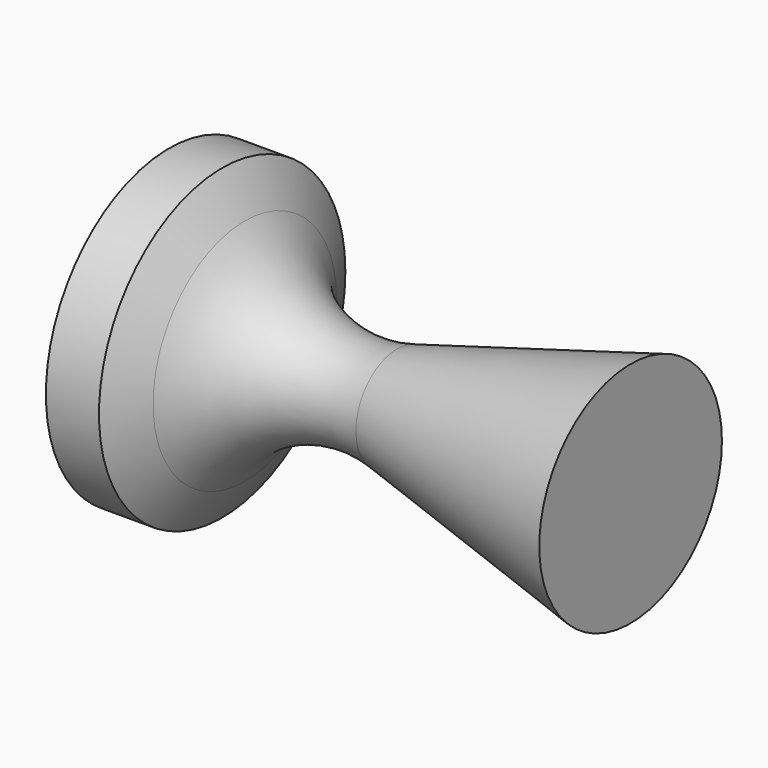
from build123d import *

# Parameters (mm, degrees)
REVOLUTION_FACE4_R = 145
PAD_DEPTH          = 50


with BuildPart() as part:
    # Sketch → Revolution (revolve)
    with BuildSketch(Plane.XY):
        with BuildLine():
            ThreePointArc((-110.418239, 108), (-48.792138, 53.95536), (32.999428, 48.594457))
            Line((32.999428, 48.594457), (252.837907, 107.5))
            Line((252.837907, 107.5), (252.837907, 0))
            Line((-131.780199, 0), (252.837907, 0))
            Line((-131.780199, 145), (-131.780199, 0))
            Line((-131.780199, 145), (-110.418239, 108))
        make_face()
    revolve(axis=Axis((0, 0, 0), (1, 0, 0)))

    # Revolution Face4 → Pad (new)
    with BuildSketch(Plane(origin=(-131.780199, 0, 0), x_dir=(0, 1, 0), z_dir=(-1, 0, 0))):
        Circle(REVOLUTION_FACE4_R)
    extrude(amount=PAD_DEPTH)


solid = part.part
